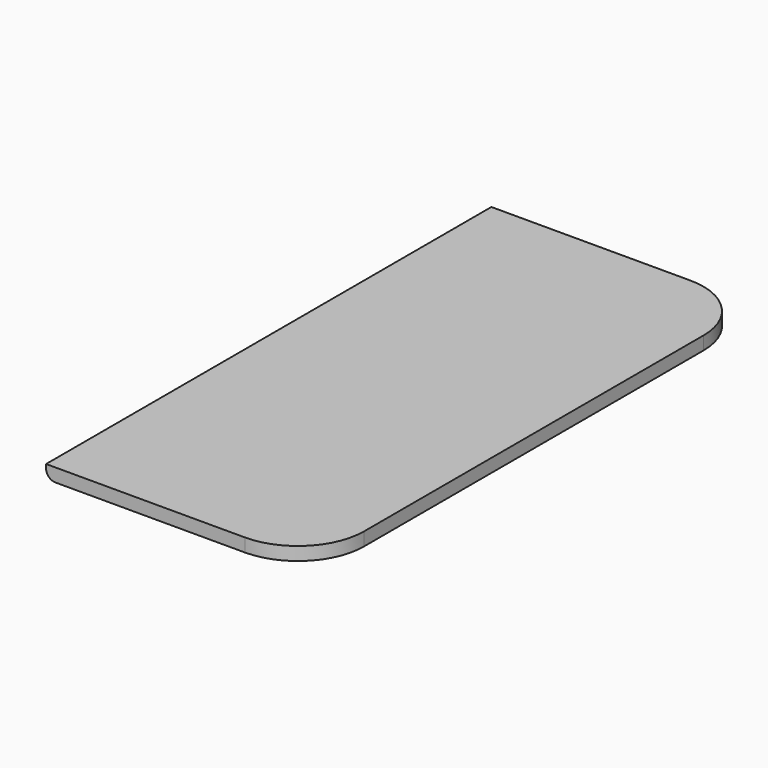
from build123d import *

# Parameters (mm, degrees)
SKETCH002_W  = 2
SKETCH002_H  = 4.2
PAD004_DEPTH = 0.1
FILLET003_R  = 0.07
FILLET004_R  = 0.5
FILLET005_R  = 0.5


with BuildPart() as part:
    # Sketch002 → Pad004 (new body)
    with BuildSketch(Plane.XY):
        with Locations((-4.33, 0.1)):
            Rectangle(SKETCH002_W, SKETCH002_H)
    extrude(amount=-PAD004_DEPTH)

    # Fillet003
    fillet003_edges = [part.edges().sort_by_distance(p)[0] for p in [
        (-5.33, 0.1, -0.1),
    ]]
    fillet(fillet003_edges, radius=FILLET003_R)

    # Fillet004
    fillet004_edges = [part.edges().sort_by_distance(p)[0] for p in [
        (-3.33, -2, -0.05),
    ]]
    fillet(fillet004_edges, radius=FILLET004_R)

    # Fillet005
    fillet005_edges = [part.edges().sort_by_distance(p)[0] for p in [
        (-3.33, 2.2, -0.05),
    ]]
    fillet(fillet005_edges, radius=FILLET005_R)


solid = part.part
